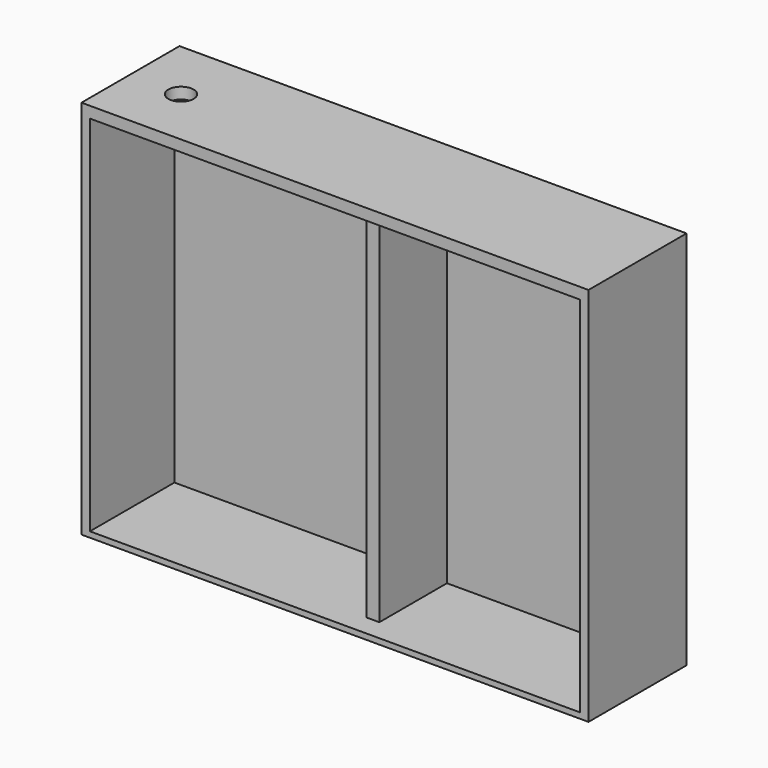
from build123d import *

# Parameters (mm, degrees)
SKETCH_W      = 120
SKETCH_H      = 90
PAD_DEPTH     = 4
SKETCH001_W   = 120
SKETCH001_H   = 90
SKETCH001_W_2 = 116
SKETCH001_H_2 = 86
PAD001_DEPTH  = 25
SKETCH002_W   = 3
SKETCH002_H   = 90
PAD002_DEPTH  = 20
SKETCH004_R   = 3
HOLE_DEPTH    = 25


with BuildPart() as part:
    # Sketch → Pad (new body)
    with BuildSketch(Plane.XZ):
        Rectangle(SKETCH_W, SKETCH_H)
    extrude(amount=PAD_DEPTH)

    # Sketch001 (on Face6 of Pad) → Pad001 (join)
    with BuildSketch(Plane.XZ.offset(4)):
        Rectangle(SKETCH001_W, SKETCH001_H)
        with Locations((0, -0.662812)):
            Rectangle(SKETCH001_W_2, SKETCH001_H_2, mode=Mode.SUBTRACT)
    extrude(amount=PAD001_DEPTH)

    # Sketch002 (on Face15 of Pad001) → Pad002 (join)
    with BuildSketch(Plane.XZ.offset(4)):
        with Locations((5, 0)):
            Rectangle(SKETCH002_W, SKETCH002_H)
    extrude(amount=PAD002_DEPTH)

    # Sketch004 (on Face14 of Pad002) → Hole (cut)
    with BuildSketch(Plane(origin=(0, 0, 42.337188), x_dir=(1, 0, 0), z_dir=(0, 0, -1))):
        with Locations((-47.758679, 14.860328)):
            Circle(SKETCH004_R)
    extrude(amount=-HOLE_DEPTH, mode=Mode.SUBTRACT)


solid = part.part
